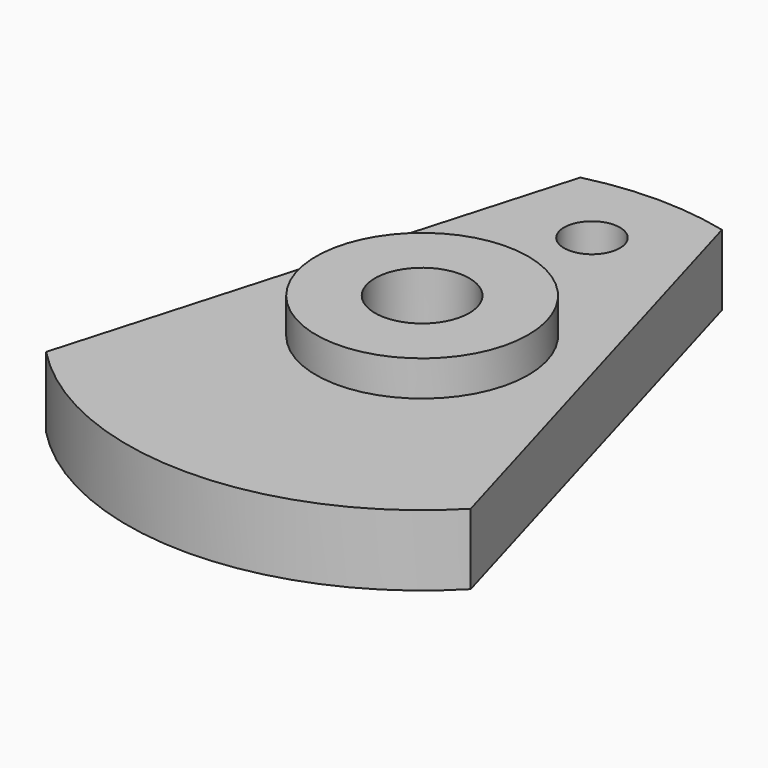
from build123d import *

# Parameters (mm, degrees)
F0_R     = 4.5
F0_R_2   = 2
F1_DEPTH = 4.5
F0_R_3   = 1.185
F2_DEPTH = 3


with BuildPart() as f1:
    # F0 (on Top) → F1 (new body)
    with BuildSketch(Plane.XY):
        Circle(F0_R)
        Circle(F0_R_2, mode=Mode.SUBTRACT)
    extrude(amount=F1_DEPTH)

    # F0 (on Top) → F2 (join)
    with BuildSketch(Plane.XY):
        with BuildLine():
            Line((-3, 12.134661), (-9, -8.674676))
            ThreePointArc((-9, -8.674676), (0, -12.5), (9, -8.674676))
            Line((9, -8.674676), (3, 12.134661))
            ThreePointArc((3, 12.134661), (0, 12.5), (-3, 12.134661))
        make_face()
        Circle(F0_R, mode=Mode.SUBTRACT)
        with Locations((0, 9)):
            Circle(F0_R_3, mode=Mode.SUBTRACT)
    extrude(amount=F2_DEPTH)


solid = f1.part
